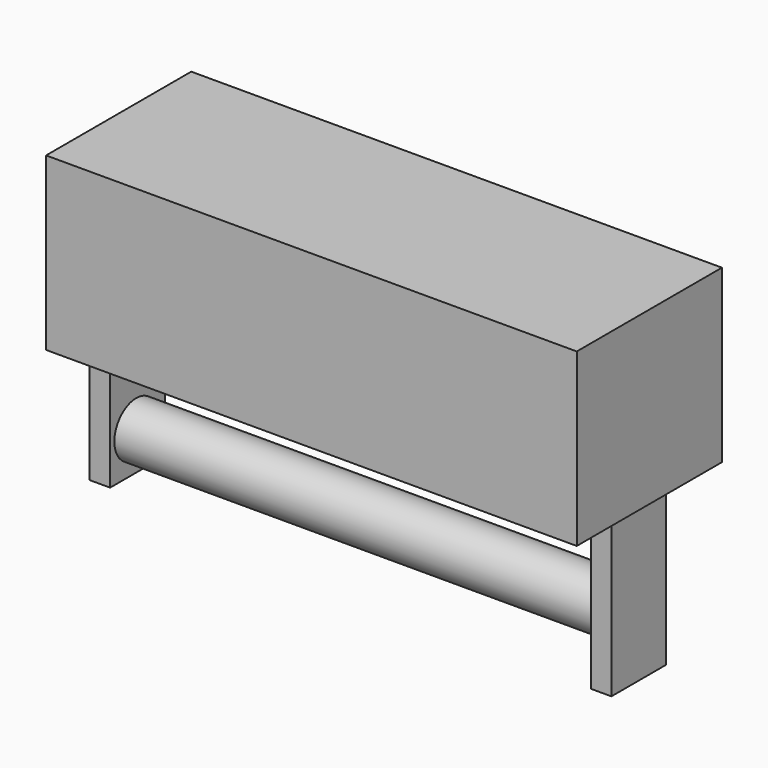
from build123d import *

# Parameters (mm, degrees)
F0_W     = 77.468356
F0_H     = 26.487343
F1_DEPTH = 25
F2_W     = 69.778483
F2_H     = 19.08228
F3_DEPTH = 23
F4_W     = 3
F4_H     = 23
F5_DEPTH = 10
F6_R     = 3.973158
F7_DEPTH = 72


with BuildPart() as f1:
    # F0 (on Top) → F1 (new body)
    with BuildSketch(Plane.XY):
        with Locations((16.091772, 5.268987)):
            Rectangle(F0_W, F0_H)
    extrude(amount=F1_DEPTH)

    # F2 (on Top) → F3 (cut)
    with BuildSketch(Plane.XY):
        with Locations((15.949367, 4.984178)):
            Rectangle(F2_W, F2_H)
    extrude(amount=F3_DEPTH, mode=Mode.SUBTRACT)

    # F4 (on Front) → F5 (join)
    with BuildSketch(Plane.XZ):
        with Locations((-21.174206, -8.476495)):
            Rectangle(F4_W, F4_H)
        with Locations((52.004144, -11.5)):
            Rectangle(F4_W, F4_H)
    extrude(amount=-F5_DEPTH)

    # F6 (on face) → F7 (join)
    with BuildSketch(Plane.YZ.offset(-19.674206)):
        with Locations((4.750193, -14.371534)):
            Circle(F6_R)
    extrude(amount=F7_DEPTH)


solid = f1.part
